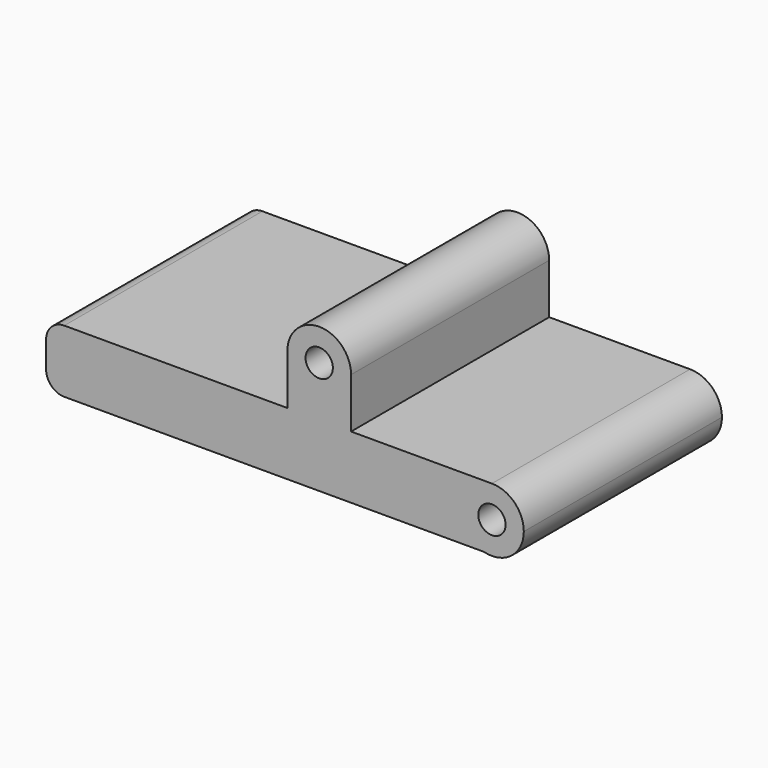
from build123d import *

# Parameters (mm, degrees)
F1_DEPTH = 27.2
F2_D     = 3
F3_D     = 3
F4_ANGLE = 180


with BuildPart() as f1:
    # F0 (on Front) → F1 (new body)
    with BuildSketch(Plane.XZ):
        with BuildLine():
            ThreePointArc((-44.7051230669, 7.7739851549), (-41.2051230669, 4.2739851549), (-37.7051230669, 7.7739851549))
            ThreePointArc((-37.7051230669, 7.7739851549), (-41.2051230669, 11.2739851549), (-44.7051230669, 7.7739851549))
        make_face()
        with BuildLine():
            ThreePointArc((-44.7051230669, 7.7739851549), (-41.2051230669, 11.2739851549), (-37.7051230669, 7.7739851549))
            Line((-37.7051230669, 7.7739851549), (-37.7051230669, 13.2739851549))
            Line((-37.7051230669, 13.2739851549), (-44.7051230669, 13.2739851549))
            Line((-44.7051230669, 13.2739851549), (-44.7051230669, 7.7739851549))
        make_face()
        with BuildLine():
            Line((-44.7051230669, 13.2739851549), (-37.7051230669, 13.2739851549))
            Line((-37.7051230669, 13.2739851549), (-22.2314571059, 13.2739851549))
            ThreePointArc((-22.2314571059, 13.2739851549), (-25.7032370007, 16.3304264081), (-23.1114218713, 20.1615598053))
            Line((-23.1114218713, 20.1615598053), (-69.2051230669, 20.1615598053))
            ThreePointArc((-69.2051230669, 20.1615598053), (-70.6193366293, 19.5757733676), (-71.2051230669, 18.1615598053))
            Line((-71.2051230669, 18.1615598053), (-71.2051230669, 15.2739851549))
            ThreePointArc((-71.2051230669, 15.2739851549), (-70.6193366293, 13.8597715926), (-69.2051230669, 13.2739851549))
            Line((-69.2051230669, 13.2739851549), (-44.7051230669, 13.2739851549))
        make_face()
        with BuildLine():
            Line((-22.2314571059, 20.1615598053), (-22.2314571059, 13.2739851549))
            ThreePointArc((-22.2314571059, 13.2739851549), (-19.7565833717, 14.2991114208), (-18.7314571059, 16.7739851549))
            ThreePointArc((-18.7314571059, 16.7739851549), (-20.0901813972, 19.5425476591), (-23.1114218713, 20.1615598053))
            Line((-23.1114218713, 20.1615598053), (-22.2314571059, 20.1615598053))
        make_face()
        with BuildLine():
            ThreePointArc((-23.1114218713, 20.1615598053), (-25.7032370007, 16.3304264081), (-22.2314571059, 13.2739851549))
            Line((-22.2314571059, 13.2739851549), (-22.2314571059, 20.1615598053))
            Line((-22.2314571059, 20.1615598053), (-23.1114218713, 20.1615598053))
        make_face()
    extrude(amount=-F1_DEPTH)

    # F2 (through all)
    with Locations(Plane.XZ):
        with Locations((-41.2051230669, 7.7739851549)):
            Hole(F2_D / 2)

    # F3 (through all)
    with Locations(Plane.XZ):
        with Locations((-22.2314571059, 16.7739851549)):
            Hole(F3_D / 2)


with BuildPart() as f1_1:
    # F4: moved
    add(f1.part.rotate(Axis((-46.1582724691, 0, 20.1615598053), (-1, 0, 0)), F4_ANGLE))


solid = f1_1.part
